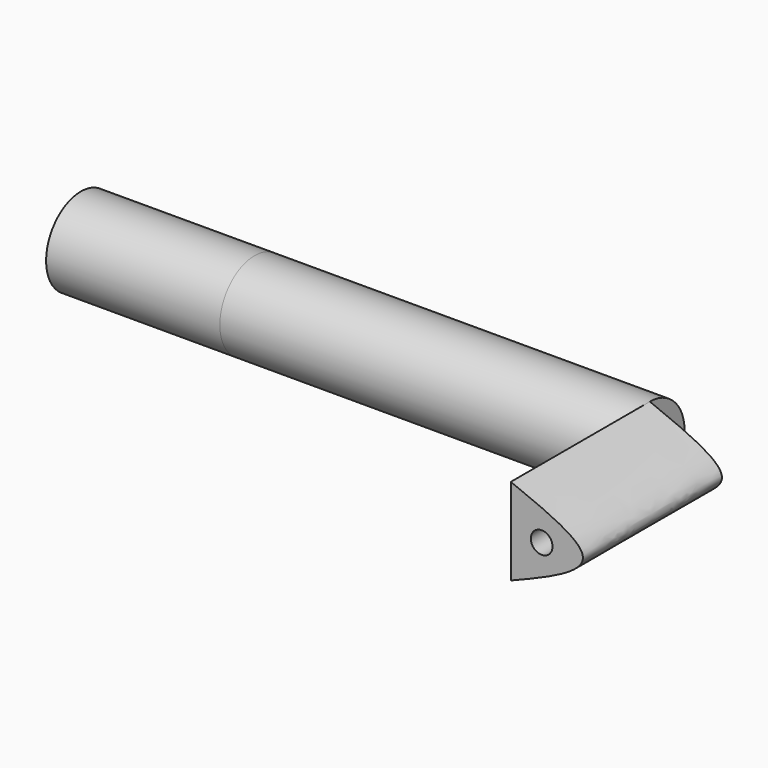
from build123d import *

# Parameters (mm, degrees)
F0_R     = 12.7
F0_R_2   = 9.525
F1_DEPTH = 57.785
F2_R     = 12.7
F3_DEPTH = 2.54
F4_R     = 3.175
F5_DEPTH = 50.8
F6_R     = 12.7
F6_R_2   = 9.525
F7_DEPTH = 50.8


with BuildPart() as f1:
    # F0 (on Right) → F1 (new body, symmetric)
    with BuildSketch(Plane.YZ):
        Circle(F0_R)
        Circle(F0_R_2, mode=Mode.SUBTRACT)
    extrude(amount=F1_DEPTH, both=True)

    # F2 (on face) → F3 (join)
    with BuildSketch(Plane.YZ.offset(57.785)):
        Circle(F2_R)
    extrude(amount=-F3_DEPTH)

    # F4 (on Front) → F5 (join)
    with BuildSketch(Plane.XZ):
        with BuildLine():
            Line((57.785, 12.7), (57.785, 0))
            Line((57.785, 0), (57.785, -12.7))
            add(Edge.make_bspline(
                [(57.785, 12.7), (68.3229282963, 8.4666666667), (89.398784889, 0), (68.3229282963, -8.4666666667), (57.785, -12.7)],
                knots=[0, 0, 0, 0, 0.5, 1, 1, 1, 1], degree=3))
        make_face()
        with Locations((66.7953193188, 0)):
            Circle(F4_R, mode=Mode.SUBTRACT)
    extrude(amount=F5_DEPTH)

    # F6 (on face) → F7 (join)
    with BuildSketch(Plane(origin=(-57.785, 0, 0), x_dir=(0, -1, 0), z_dir=(-1, 0, 0))):
        Circle(F6_R)
        Circle(F6_R_2, mode=Mode.SUBTRACT)
    extrude(amount=F7_DEPTH)


solid = f1.part
